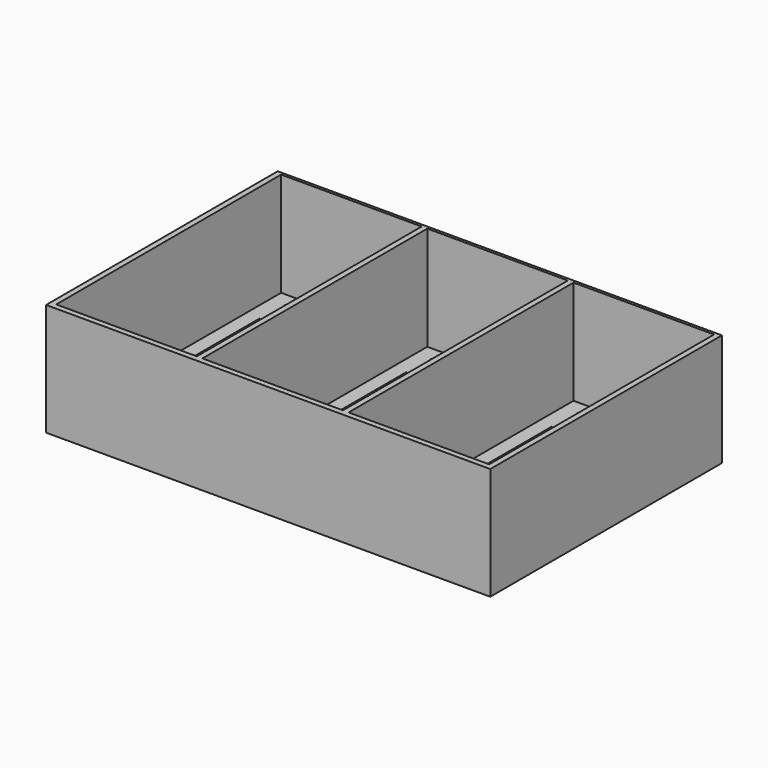
from build123d import *

# Parameters (mm, degrees)
F0_W     = 50
F0_H     = 100
F0_H_2   = 1
F1_DEPTH = 40
F2_DEPTH = 3
F3_DEPTH = 2


with BuildPart() as f1:
    # F0 (on Top) → F1 (new body)
    with BuildSketch(Plane.XY):
        Polygon((-25, -50), (-25, 50), (-25, 51), (-27, 51), (-27, -52), (131, -52), (131, 51), (25, 51), (25, 50), (25, -50), align=None)
        with Locations((52, 0)):
            Rectangle(F0_W, F0_H, mode=Mode.SUBTRACT)
        with Locations((104, 0)):
            Rectangle(F0_W, F0_H, mode=Mode.SUBTRACT)
        with Locations((0, 50.5)):
            Rectangle(F0_W, F0_H_2)
    extrude(amount=F1_DEPTH)

    # F0 (on Top) → F2 (join)
    with BuildSketch(Plane.XY):
        Rectangle(F0_W, F0_H)
        Polygon((-20, -45), (-20, 34.40983), (19.704915, -45), align=None, mode=Mode.SUBTRACT)
        Polygon((20, -34.40983), (-19.704915, 45), (20, 45), align=None, mode=Mode.SUBTRACT)
        with Locations((52, 0)):
            Rectangle(F0_W, F0_H)
        Polygon((32, 34.40983), (71.704915, -45), (32, -45), align=None, mode=Mode.SUBTRACT)
        Polygon((72, -34.40983), (32.295085, 45), (72, 45), align=None, mode=Mode.SUBTRACT)
        with Locations((104, 0)):
            Rectangle(F0_W, F0_H)
        Polygon((84, 34.40983), (123.704915, -45), (84, -45), align=None, mode=Mode.SUBTRACT)
        Polygon((124, -34.40983), (84.295085, 45), (124, 45), align=None, mode=Mode.SUBTRACT)
    extrude(amount=F2_DEPTH)

    # F0 (on Top) → F3 (join)
    with BuildSketch(Plane.XY):
        Polygon((20, 45), (-19.704915, 45), (20, -34.40983), align=None)
        Polygon((19.704915, -45), (-20, 34.40983), (-20, -45), align=None)
        Polygon((32, -45), (71.704915, -45), (32, 34.40983), align=None)
        Polygon((72, 45), (32.295085, 45), (72, -34.40983), align=None)
        Polygon((124, 45), (84.295085, 45), (124, -34.40983), align=None)
        Polygon((84, -45), (123.704915, -45), (84, 34.40983), align=None)
    extrude(amount=F3_DEPTH)


solid = f1.part
